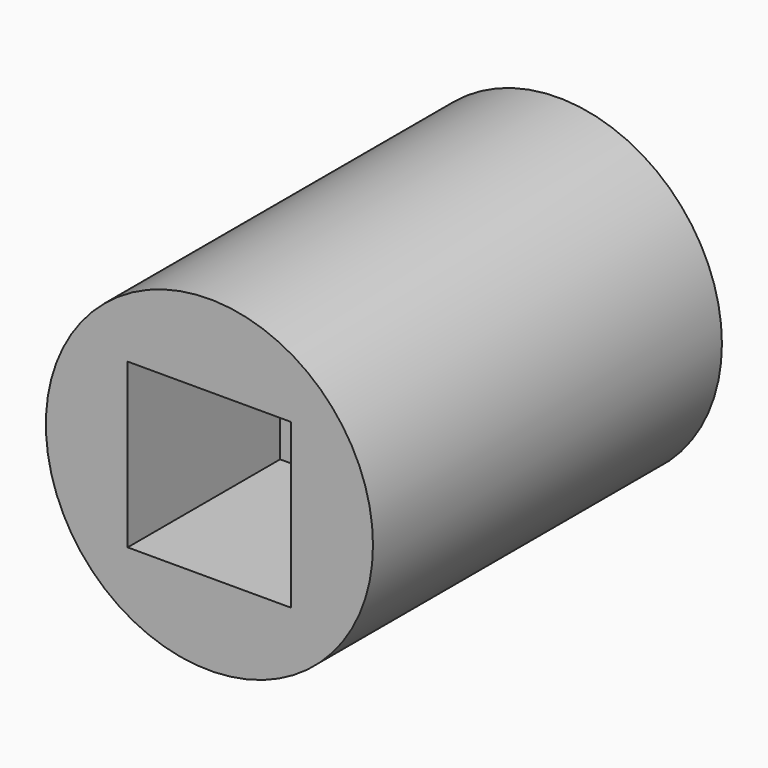
from build123d import *

# Parameters (mm, degrees)
F0_R     = 9.525
F1_DEPTH = 25.4
F3_DEPTH = 25.401
F4_DEPTH = 11.0998
F6_DEPTH = 9.525


with BuildPart() as f1:
    # F0 (on Front) → F1 (new body)
    with BuildSketch(Plane.XZ):
        Circle(F0_R)
    extrude(amount=F1_DEPTH)

    # F2 (on face) → F3 (cut, through all)
    with BuildSketch(Plane.XZ.offset(25.4)):
        with BuildLine():
            ThreePointArc((-4.7625, 0), (-3.367596, -3.367596), (0, -4.7625))
            ThreePointArc((0, -4.7625), (3.367596, -3.367596), (4.7625, 0))
            ThreePointArc((4.7625, 0), (3.367596, 3.367596), (0, 4.7625))
            ThreePointArc((0, 4.7625), (-3.367596, 3.367596), (-4.7625, 0))
        make_face()
    extrude(amount=-F3_DEPTH, mode=Mode.SUBTRACT)

    # F2 (on face) → F4 (cut)
    with BuildSketch(Plane.XZ.offset(25.4)):
        with BuildLine():
            Line((0, -4.7625), (4.7625, -4.7625))
            Line((4.7625, -4.7625), (4.7625, 0))
            ThreePointArc((4.7625, 0), (3.367596, -3.367596), (0, -4.7625))
        make_face()
        with BuildLine():
            Line((-4.7625, -4.7625), (0, -4.7625))
            ThreePointArc((0, -4.7625), (-3.367596, -3.367596), (-4.7625, 0))
            Line((-4.7625, 0), (-4.7625, -4.7625))
        make_face()
        with BuildLine():
            ThreePointArc((0, 4.7625), (3.367596, 3.367596), (4.7625, 0))
            Line((4.7625, 0), (4.7625, 4.7625))
            Line((4.7625, 4.7625), (0, 4.7625))
        make_face()
        with BuildLine():
            Line((-4.7625, 4.7625), (-4.7625, 0))
            ThreePointArc((-4.7625, 0), (-3.367596, 3.367596), (0, 4.7625))
            Line((0, 4.7625), (-4.7625, 4.7625))
        make_face()
    extrude(amount=-F4_DEPTH, mode=Mode.SUBTRACT)

    # F5 (on face) → F6 (cut)
    with BuildSketch(Plane(origin=(0, 0, 0), x_dir=(-1, 0, 0), z_dir=(0, 1, 0))):
        Polygon((6.324151, -3.65125), (6.324151, 3.65125), (0, 7.3025), (-6.324151, 3.65125), (-6.324151, -3.65125), (0, -7.3025), align=None)
    extrude(amount=-F6_DEPTH, mode=Mode.SUBTRACT)


solid = f1.part
